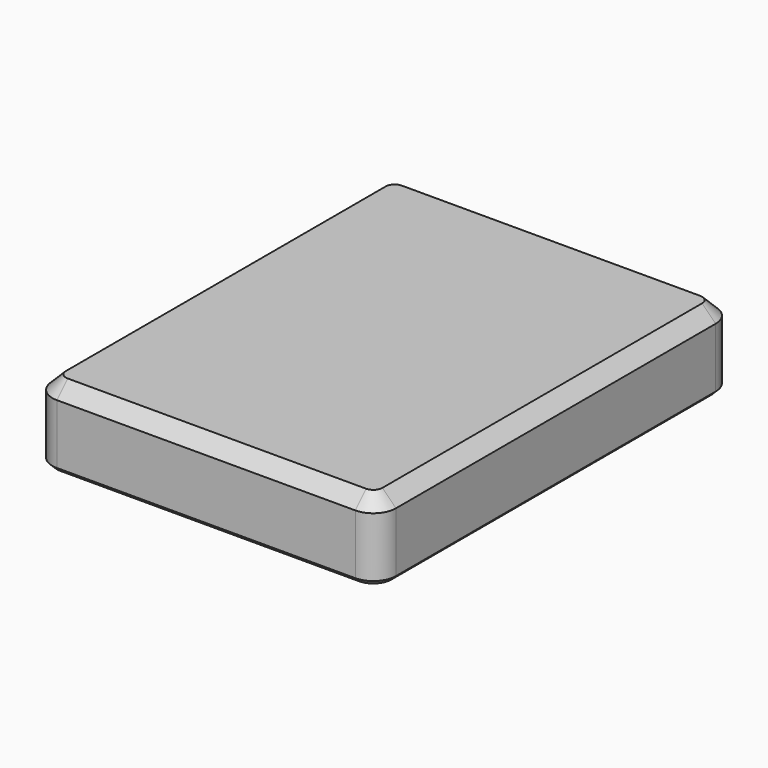
from build123d import *

# Parameters (mm, degrees)
SKETCH_W        = 380
SKETCH_H        = 492
PAD_DEPTH       = 86
FILLET_R        = 25
CHAMFER_SIZE    = 15
CHAMFER001_SIZE = 5
SKETCH001_R     = 2
SKETCH001_W     = 13
SKETCH001_H     = 5.2
SKETCH001_W_2   = 74
SKETCH001_H_2   = 15
SKETCH001_W_3   = 32
SKETCH001_H_3   = 13
POCKET_DEPTH    = 5
POCKET001_DEPTH = 5


with BuildPart() as part:
    # Sketch → Pad (new body)
    with BuildSketch(Plane.XY):
        Rectangle(SKETCH_W, SKETCH_H)
    extrude(amount=PAD_DEPTH)

    # Fillet
    fillet_edges = [part.edges().sort_by_distance(p)[0] for p in [
        (190, -246, 43),
        (-190, -246, 43),
        (-190, 246, 43),
        (190, 246, 43),
    ]]
    fillet(fillet_edges, radius=FILLET_R)

    # Chamfer
    chamfer_edges = [part.edges().sort_by_distance(p)[0] for p in [
        (-190, 0, 86),
    ]]
    chamfer(chamfer_edges, length=CHAMFER_SIZE)

    # Chamfer001
    chamfer001_edges = [part.edges().sort_by_distance(p)[0] for p in [
        (-190, 0, 0),
    ]]
    chamfer(chamfer001_edges, length=CHAMFER001_SIZE)

    # Sketch001 (on Face8 of Chamfer001) → Pocket (cut)
    with BuildSketch(Plane(origin=(-190, 0, 0), x_dir=(0, -1, 0), z_dir=(-1, 0, 0))):
        with Locations((-195, 51.4)):
            Circle(SKETCH001_R)
        with Locations((-166, 51.4)):
            Circle(SKETCH001_R)
        with Locations((-180.5, 51.4)):
            Rectangle(SKETCH001_W, SKETCH001_H)
        with Locations((-118.8, 52.2)):
            Rectangle(SKETCH001_W_2, SKETCH001_H_2)
        with Locations((-44.298921, 52.5)):
            Rectangle(SKETCH001_W_3, SKETCH001_H_3)
    extrude(amount=-POCKET_DEPTH, mode=Mode.SUBTRACT)

    # Sketch002 (on Face8 of Chamfer001) → Pocket001 (cut)
    with BuildSketch(Plane.ZY.offset(190)):
        with BuildLine():
            Line((56, -164.642661), (61.226074, -181.241389))
            ThreePointArc((39.573926, -181.241389), (50.4, -196), (61.226074, -181.241389))
            Line((39.573926, -181.241389), (44.8, -164.642661))
            Line((44.8, -164.642661), (44.8, -149.456661))
            ThreePointArc((56, -149.456661), (50.4, -143.856661), (44.8, -149.456661))
            Line((56, -149.456661), (56, -164.642661))
        make_face()
    extrude(amount=-POCKET001_DEPTH, mode=Mode.SUBTRACT)


solid = part.part
